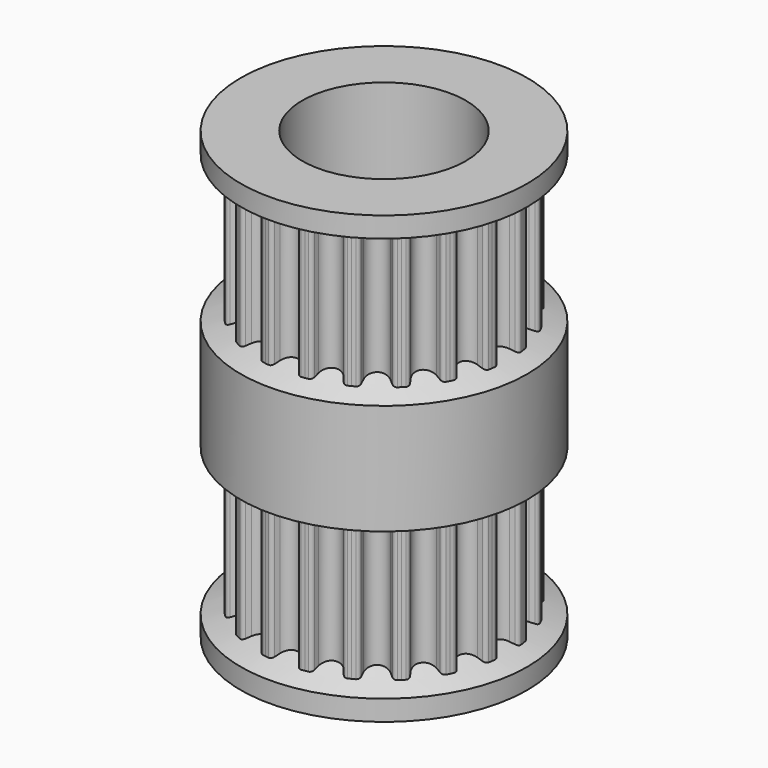
from build123d import *

# Parameters (mm, degrees)
F3_DEPTH = 10.5
F4_COUNT = 20
F7_R     = 4
F8_DEPTH = 50


with BuildPart() as f3:
    # F2 (on Top) → F3 (new body, symmetric)
    with BuildSketch(Plane.XY):
        with BuildLine():
            Line((0.8388325323, 5.2961801716), (0.9561583811, 6.0369464271))
            ThreePointArc((0.9561583811, 6.0369464271), (0.8769247137, 6.0489638832), (0.7975402939, 6.0599414595))
            ThreePointArc((0.7975402939, 6.0599414595), (0.673583382, 6.0329713178), (0.5951684067, 5.9332527328))
            ThreePointArc((0.5951684067, 5.9332527328), (0.5578349377, 5.8252126761), (0.5180414063, 5.7180543045))
            ThreePointArc((0.5180414063, 5.7180543045), (0.3142454474, 5.4597320978), (0, 5.3621977237))
            ThreePointArc((0, 5.3621977237), (-0.3142454474, 5.4597320978), (-0.5180414063, 5.7180543045))
            ThreePointArc((-0.5180414063, 5.7180543045), (-0.5578349377, 5.8252126761), (-0.5951684067, 5.9332527328))
            ThreePointArc((-0.5951684067, 5.9332527328), (-0.673583382, 6.0329713178), (-0.7975402939, 6.0599414595))
            ThreePointArc((-0.7975402939, 6.0599414595), (-0.8769247137, 6.0489638832), (-0.9561583811, 6.0369464271))
            Line((-0.9561583811, 6.0369464271), (-0.8388325323, 5.2961801716))
            Line((-0.8388325323, 5.2961801716), (0, 0))
            Line((0, 0), (0.8388325323, 5.2961801716))
        make_face()
        with BuildLine():
            Line((0.8388325323, 5.2961801716), (0.9561583811, 6.0369464271))
            ThreePointArc((0.9561583811, 6.0369464271), (0.8769247137, 6.0489638832), (0.7975402939, 6.0599414595))
            ThreePointArc((0.7975402939, 6.0599414595), (0.673583382, 6.0329713178), (0.5951684067, 5.9332527328))
            ThreePointArc((0.5951684067, 5.9332527328), (0.5578349377, 5.8252126761), (0.5180414063, 5.7180543045))
            ThreePointArc((0.5180414063, 5.7180543045), (0.3142454474, 5.4597320978), (0, 5.3621977237))
            ThreePointArc((0, 5.3621977237), (-0.3142454474, 5.4597320978), (-0.5180414063, 5.7180543045))
            ThreePointArc((-0.5180414063, 5.7180543045), (-0.5578349377, 5.8252126761), (-0.5951684067, 5.9332527328))
            ThreePointArc((-0.5951684067, 5.9332527328), (-0.673583382, 6.0329713178), (-0.7975402939, 6.0599414595))
            ThreePointArc((-0.7975402939, 6.0599414595), (-0.8769247137, 6.0489638832), (-0.9561583811, 6.0369464271))
            Line((-0.9561583811, 6.0369464271), (-0.8388325323, 5.2961801716))
            Line((-0.8388325323, 5.2961801716), (0, 0))
            Line((0, 0), (0.8388325323, 5.2961801716))
        make_face()
        with BuildLine():
            Line((0.8388325323, 5.2961801716), (0.9561583811, 6.0369464271))
            ThreePointArc((0.9561583811, 6.0369464271), (0.8769247137, 6.0489638832), (0.7975402939, 6.0599414595))
            ThreePointArc((0.7975402939, 6.0599414595), (0.673583382, 6.0329713178), (0.5951684067, 5.9332527328))
            ThreePointArc((0.5951684067, 5.9332527328), (0.5578349377, 5.8252126761), (0.5180414063, 5.7180543045))
            ThreePointArc((0.5180414063, 5.7180543045), (0.3142454474, 5.4597320978), (0, 5.3621977237))
            ThreePointArc((0, 5.3621977237), (-0.3142454474, 5.4597320978), (-0.5180414063, 5.7180543045))
            ThreePointArc((-0.5180414063, 5.7180543045), (-0.5578349377, 5.8252126761), (-0.5951684067, 5.9332527328))
            ThreePointArc((-0.5951684067, 5.9332527328), (-0.673583382, 6.0329713178), (-0.7975402939, 6.0599414595))
            ThreePointArc((-0.7975402939, 6.0599414595), (-0.8769247137, 6.0489638832), (-0.9561583811, 6.0369464271))
            Line((-0.9561583811, 6.0369464271), (-0.8388325323, 5.2961801716))
            Line((-0.8388325323, 5.2961801716), (0, 0))
            Line((0, 0), (0.8388325323, 5.2961801716))
        make_face()
    extrude(amount=F3_DEPTH, both=True)

    # F4: F3 ×20 about axis
    f4_axis = Axis((0, 0, 0), (0, 0, -1))


with BuildPart() as f3_1:
    add(f3.part)
    for i in range(1, F4_COUNT):
        add(f3.part.rotate(f4_axis, i * 360 / F4_COUNT))

    # F5 (on Front) → F6 (revolve)
    with BuildSketch(Plane.XZ):
        Polygon((7.002817496, 10.5), (0, 10.5), (0, 8.9028632371), (5.3621977237, 8.9028632371), (7.002817496, 9.5), align=None)
        Polygon((5.3621977237, 2.9028632371), (0, 2.9028632371), (0, -3.6971367629), (5.3621977237, -3.6971367629), (7.002817496, -3.1), (7.002817496, 2.3057264742), align=None)
        Polygon((5.3621977237, -9.6971367629), (0, -9.6971367629), (0, -11.2942735258), (7.002817496, -11.2942735258), (7.002817496, -10.2942735258), align=None)
    revolve(axis=Axis((0, 0, -0.3971367629), (0, 0, 1)))

    # F7 (on Top) → F8 (cut, symmetric)
    with BuildSketch(Plane.XY):
        Circle(F7_R)
    extrude(amount=F8_DEPTH, both=True, mode=Mode.SUBTRACT)


solid = f3_1.part
